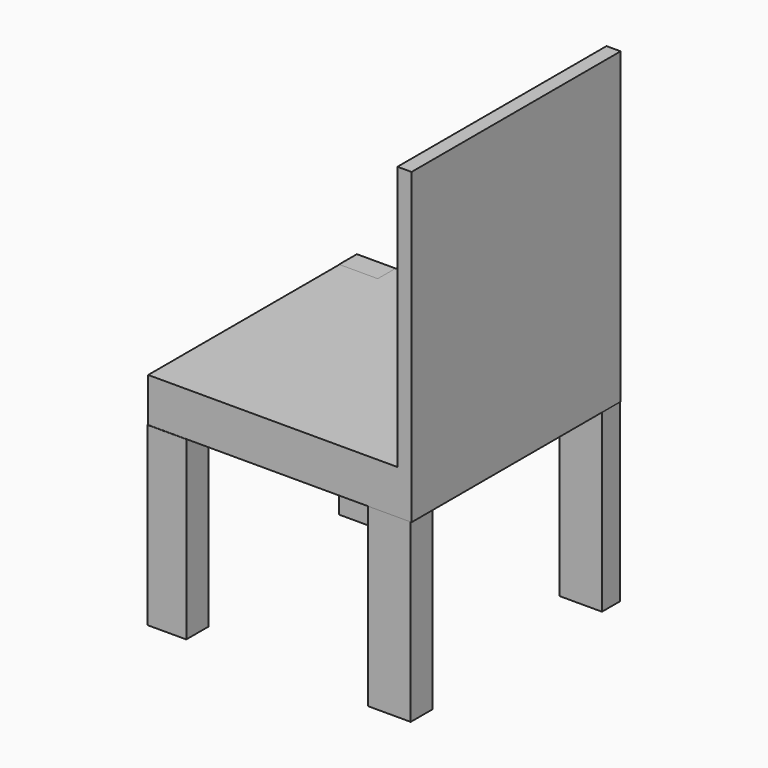
from build123d import *

# Parameters (mm, degrees)
F0_W      = 22.2713761032
F0_H      = 12.734927237
F1_DEPTH  = 101.6
F0_W_2    = 24.6072933078
F0_H_2    = 13.0628943443
F0_W_3    = 24.4693160057
F0_H_3    = 15.8381722867
F0_W_4    = 22.4093534052
F0_H_4    = 16.1661319435
F3_DEPTH  = 25.4
F4_W      = 22.2713761032
F4_H      = 12.734927237
F5_DEPTH  = 25.4
F6_W      = 8.1346035004
F6_H      = 150.6408303976
F7_DEPTH  = 76.2
F8_DEPTH  = 152.4
F9_DEPTH  = 127
F10_DEPTH = 25.4
F11_DEPTH = 76.2
F12_DEPTH = 76.2
F13_DEPTH = 76.2


with BuildPart() as f1:
    # F0 (on Top) → F1 (new body)
    with BuildSketch(Plane.XY):
        with Locations((-64.8248959333, 69.7539411485)):
            Rectangle(F0_W, F0_H)
    extrude(amount=F1_DEPTH)


with BuildPart() as f1b:
    # F0 (on Top) → F1, piece 2 (new body)
    with BuildSketch(Plane.XY):
        with Locations((63.26655671, 69.9179247022)):
            Rectangle(F0_W_2, F0_H_2)
    extrude(amount=F1_DEPTH)


with BuildPart() as f1c:
    # F0 (on Top) → F1, piece 3 (new body)
    with BuildSketch(Plane.XY):
        with Locations((63.197568059, -66.3553122431)):
            Rectangle(F0_W_3, F0_H_3)
    extrude(amount=F1_DEPTH)


with BuildPart() as f1d:
    # F0 (on Top) → F1, piece 4 (new body)
    with BuildSketch(Plane.XY):
        with Locations((-64.8938845843, -66.5192920715)):
            Rectangle(F0_W_4, F0_H_4)
    extrude(amount=F1_DEPTH)


with BuildPart() as f3:
    # F2 (on face) → F3 (new body)
    with BuildSketch(Plane.XY.offset(101.6)):
        Polygon((-75.7723376155, 63.38647753), (-75.7723376155, -74.4425281882), (76.0736167431, -74.4425281882), (76.0736167431, 76.1983022094), (-75.7723376155, 76.1983022094), (-75.7723376155, 76.121404767), (-53.6892078817, 76.121404767), (-53.6892078817, 63.38647753), align=None)
    extrude(amount=F3_DEPTH)

    # F6 (on face) → F7 (join)
    with BuildSketch(Plane.XY.offset(127)):
        with Locations((72.0063149929, 0.8778870106)):
            Rectangle(F6_W, F6_H)
    extrude(amount=F7_DEPTH)

    # F8 (add): a face of the model
    f8_faces = [f3.faces().sort_by_distance(p)[0] for p in [
        (72.0063149929, 0.8778870106, 203.2),
    ]]
    extrude(f8_faces, amount=F8_DEPTH)

    # F9 (add): a face of the model
    f9_faces = [f3.faces().sort_by_distance(p)[0] for p in [
        (72.0063149929, 0.8778870106, 355.6),
    ]]
    extrude(f9_faces, amount=F9_DEPTH)

    # F10 (add): a face of the model
    f10_faces = [f3.faces().sort_by_distance(p)[0] for p in [
        (72.0063149929, 0.8778870106, 482.6),
    ]]
    extrude(f10_faces, amount=F10_DEPTH)

    # F11 (cut): a face of the model
    f11_faces = [f3.faces().sort_by_distance(p)[0] for p in [
        (72.0063149929, 0.8778870106, 508),
    ]]
    extrude(f11_faces, amount=-F11_DEPTH, mode=Mode.SUBTRACT)

    # F12 (cut): a face of the model
    f12_faces = [f3.faces().sort_by_distance(p)[0] for p in [
        (72.0063149929, 0.8778870106, 431.8),
    ]]
    extrude(f12_faces, amount=-F12_DEPTH, mode=Mode.SUBTRACT)

    # F13 (cut): a face of the model
    f13_faces = [f3.faces().sort_by_distance(p)[0] for p in [
        (72.0063149929, 0.8778870106, 355.6),
    ]]
    extrude(f13_faces, amount=-F13_DEPTH, mode=Mode.SUBTRACT)


with BuildPart() as f5:
    # F4 (on face) → F5 (new body)
    with BuildSketch(Plane.XY.offset(101.6)):
        with Locations((-64.8248959333, 69.7539411485)):
            Rectangle(F4_W, F4_H)
    extrude(amount=F5_DEPTH)


solid = Compound([f1.part, f1b.part, f1c.part, f1d.part, f3.part, f5.part])
